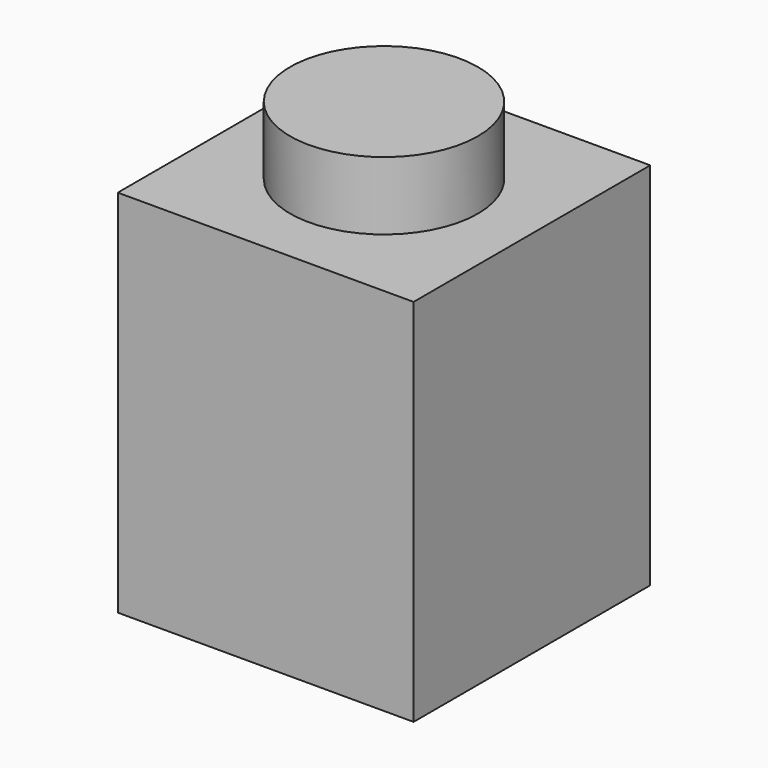
from build123d import *

# Parameters (mm, degrees)
F0_W     = 7.7216
F0_H     = 7.7216
F1_DEPTH = 4.826
F2_R     = 2.4511
F3_DEPTH = 1.778
F4_W     = 4.8768
F4_H     = 4.826
F5_DEPTH = 8.0518


with BuildPart() as f1:
    # F0 (on Top) → F1 (new body, symmetric)
    with BuildSketch(Plane.XY):
        Rectangle(F0_W, F0_H)
    extrude(amount=F1_DEPTH, both=True)

    # F2 (on face) → F3 (join)
    with BuildSketch(Plane.XY.offset(4.826)):
        Circle(F2_R)
    extrude(amount=F3_DEPTH)

    # F4 (on face) → F5 (cut)
    with BuildSketch(Plane(origin=(0, 0, -4.826), x_dir=(1, 0, 0), z_dir=(0, 0, -1))):
        Rectangle(F4_W, F4_H)
    extrude(amount=-F5_DEPTH, mode=Mode.SUBTRACT)


solid = f1.part
